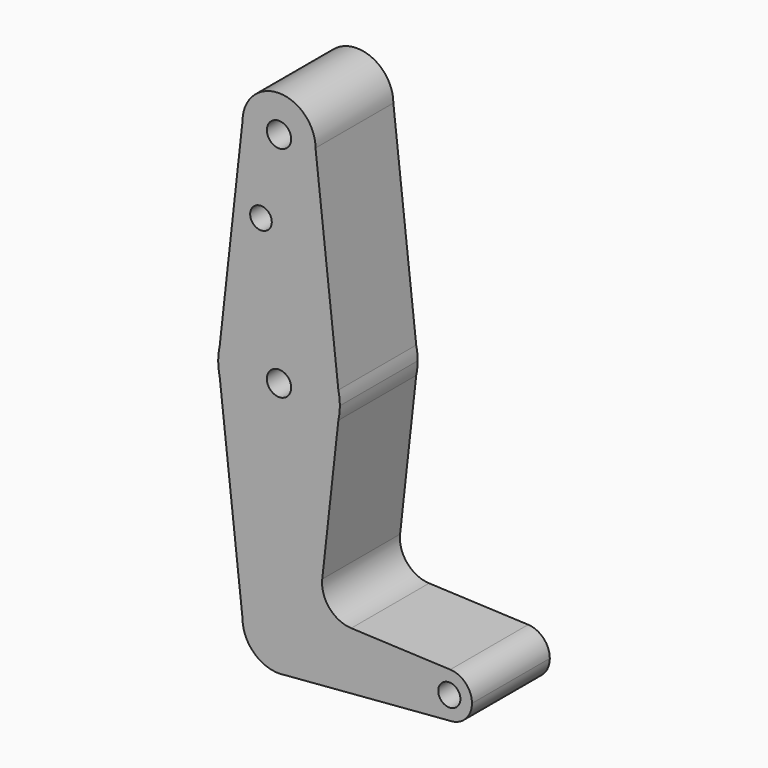
from build123d import *

# Parameters (mm, degrees)
F0_R     = 3.175
F0_R_2   = 2.8227407603
F0_R_3   = 2.8948343133
F1_DEPTH = 25.4


with BuildPart() as f1:
    # F0 (on Front) → F1 (new body)
    with BuildSketch(Plane.XZ):
        with BuildLine():
            ThreePointArc((-9.525, 114.3), (0, 104.775), (9.525, 114.3))
            ThreePointArc((9.525, 114.3), (0, 123.825), (-9.525, 114.3))
        make_face()
        with Locations((0, 114.3)):
            Circle(F0_R, mode=Mode.SUBTRACT)
        with BuildLine():
            Line((15.487804878, 60.6347560976), (9.525, 114.3))
            ThreePointArc((9.525, 114.3), (0, 104.775), (-9.525, 114.3))
            Line((-9.525, 114.3), (-15.487804878, 60.6347560976))
            ThreePointArc((-15.487804878, 60.6347560976), (0, 73.025), (15.487804878, 60.6347560976))
        make_face()
        with Locations((-4.7098048963, 93.5786440969)):
            Circle(F0_R_2, mode=Mode.SUBTRACT)
        with BuildLine():
            Line((15.875, 57.15), (15.487804878, 60.6347560976))
            ThreePointArc((15.487804878, 60.6347560976), (0, 73.025), (-15.487804878, 60.6347560976))
            Line((-15.487804878, 60.6347560976), (-15.875, 57.15))
            Line((-15.875, 57.15), (-15.487804878, 53.6652439024))
            ThreePointArc((-15.487804878, 53.6652439024), (0, 41.275), (15.487804878, 53.6652439024))
            Line((15.487804878, 53.6652439024), (15.875, 57.15))
        make_face()
        with Locations((0, 57.15)):
            Circle(F0_R, mode=Mode.SUBTRACT)
        with BuildLine():
            ThreePointArc((15.875, 57.15), (15.7779042879, 58.9031004764), (15.487804878, 60.6347560976))
            Line((15.487804878, 60.6347560976), (15.875, 57.15))
        make_face()
        with BuildLine():
            Line((-15.875, 57.15), (-15.487804878, 60.6347560976))
            ThreePointArc((-15.487804878, 60.6347560976), (-15.7779042879, 58.9031004764), (-15.875, 57.15))
        make_face()
        with BuildLine():
            ThreePointArc((15.487804878, 53.6652439024), (15.7779042879, 55.3968995236), (15.875, 57.15))
            Line((15.875, 57.15), (15.487804878, 53.6652439024))
        make_face()
        with BuildLine():
            Line((-15.487804878, 53.6652439024), (-15.875, 57.15))
            ThreePointArc((-15.875, 57.15), (-15.7779042879, 55.3968995236), (-15.487804878, 53.6652439024))
        make_face()
        with BuildLine():
            Line((11.2837349209, 15.8286142885), (15.487804878, 53.6652439024))
            ThreePointArc((15.487804878, 53.6652439024), (0, 41.275), (-15.487804878, 53.6652439024))
            Line((-15.487804878, 53.6652439024), (-9.525, 0))
            ThreePointArc((-9.525, 0), (0, 9.525), (9.525, 0))
            ThreePointArc((9.525, 0), (7.2595482465, -6.1664077271), (1.5408353267, -9.3995452813))
            Line((1.5408353267, -9.3995452813), (44.45, -5.9058837015))
            ThreePointArc((44.45, -5.9058837015), (38.545468302, 0.1263634545), (44.7026690535, 5.9004763066))
            Line((44.7026690535, 5.9004763066), (18.8451791707, 7.0077407296))
            ThreePointArc((18.8451791707, 7.0077407296), (13.1493027106, 9.7764656492), (11.2837349209, 15.8286142885))
        make_face()
        with BuildLine():
            Line((0, 0), (-9.525, 0))
            ThreePointArc((-9.525, 0), (-6.7351920908, -6.7351920908), (0, -9.525))
            Line((0, -9.525), (0, 0))
        make_face()
        with BuildLine():
            ThreePointArc((9.525, 0), (0, 9.525), (-9.525, 0))
            Line((-9.525, 0), (0, 0))
            Line((0, 0), (0, -9.525))
            Line((0, -9.525), (1.5408353267, -9.3995452813))
            ThreePointArc((1.5408353267, -9.3995452813), (7.2595482465, -6.1664077271), (9.525, 0))
        make_face()
        with BuildLine():
            Line((1.5408353267, -9.3995452813), (0, -9.525))
            ThreePointArc((0, -9.525), (0.7729670741, -9.4935845128), (1.5408353267, -9.3995452813))
        make_face()
        with BuildLine():
            ThreePointArc((50.3558837015, 0), (48.7144868589, 4.0857819478), (44.7026690535, 5.9004763066))
            ThreePointArc((44.7026690535, 5.9004763066), (38.545468302, 0.1263634545), (44.45, -5.9058837015))
            ThreePointArc((44.45, -5.9058837015), (48.6260904142, -4.1760904142), (50.3558837015, 0))
        make_face()
        with Locations((44.45, 0)):
            Circle(F0_R_3, mode=Mode.SUBTRACT)
    extrude(amount=F1_DEPTH)


solid = f1.part
